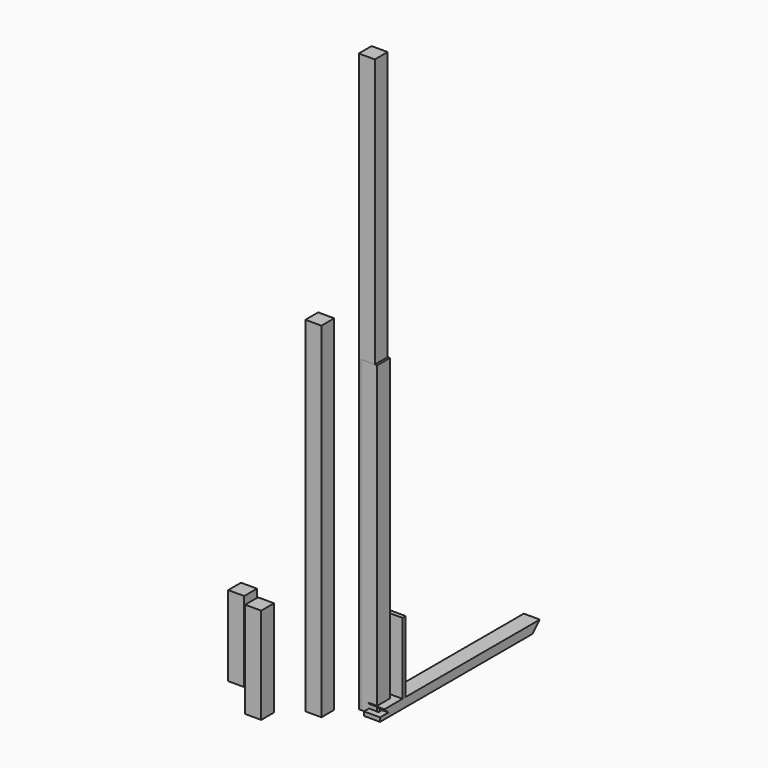
from build123d import *

# Parameters (mm, degrees)
F0_W      = 25.4
F0_H      = 25.4
F1_DEPTH  = 457.2
F2_W      = 25.4
F2_H      = 25.4
F3_DEPTH  = 546.1
F5_DEPTH  = 25.4
F6_W      = 25.4
F6_H      = 25.4
F7_DEPTH  = 127
F8_W      = 25.4
F8_H      = 25.4
F9_DEPTH  = 152.4
F11_DEPTH = 25.4
F12_W     = 25.4
F12_H     = 25.4
F13_DEPTH = 914.4
F14_W     = 25.4
F14_H     = 25.4
F15_DEPTH = 488.95
F17_D     = 6.35
F17_DEPTH = 25.4
F17_TIP   = 1.9077324654


with BuildPart() as f1:
    # F0 (on Top) → F1 (new body)
    with BuildSketch(Plane.XY):
        Rectangle(F0_W, F0_H)
    extrude(amount=F1_DEPTH)


with BuildPart() as f3:
    # F2 (on Top) → F3 (new body)
    with BuildSketch(Plane.XY):
        with Locations((-51.6366362572, -45.7707265022)):
            Rectangle(F2_W, F2_H)
    extrude(amount=F3_DEPTH)


with BuildPart() as f5:
    # F4 (on Right) → F5 (new body)
    with BuildSketch(Plane.YZ):
        Polygon((-22.777274251, 0), (28.022725749, 0), (28.022725749, 127), (21.672725749, 127), (21.672725749, 6.35), (-22.777274251, 6.35), align=None)
    extrude(amount=F5_DEPTH)

    # F17
    with Locations(Plane.XY.offset(6.35)):
        with Locations((12.7, -10.077274251)):
            Hole(F17_D / 2, depth=F17_DEPTH)
            with Locations((0, 0, -(F17_DEPTH + F17_TIP / 2))):  # 118° drill point
                Cone(0, F17_D / 2, F17_TIP, mode=Mode.SUBTRACT)


with BuildPart() as f7:
    # F6 (on Top) → F7 (new body)
    with BuildSketch(Plane.XY):
        with Locations((-176.7839704037, -42.2121815711)):
            Rectangle(F6_W, F6_H)
    extrude(amount=F7_DEPTH)


with BuildPart() as f9:
    # F8 (on Top) → F9 (new body)
    with BuildSketch(Plane.XY):
        with Locations((-105.4023589611, -97.7482430965)):
            Rectangle(F8_W, F8_H)
    extrude(amount=F9_DEPTH)


with BuildPart() as f11:
    # F10 (on Right) → F11 (new body)
    with BuildSketch(Plane.YZ):
        Polygon((-14.1594959423, 14.1594959423), (0, 0), (279.4, 0), (293.5594959423, 14.1594959423), align=None)
    extrude(amount=F11_DEPTH)


with BuildPart() as f13:
    # F12 (on Top) → F13 (new body)
    with BuildSketch(Plane.XY):
        with Locations((-3.6760638468, 0)):
            Rectangle(F12_W, F12_H)
    extrude(amount=F13_DEPTH)


with BuildPart() as f15:
    # F14 (on Top) → F15 (new body)
    with BuildSketch(Plane.XY):
        Rectangle(F14_W, F14_H)
    extrude(amount=F15_DEPTH)


solid = Compound([f1.part, f3.part, f5.part, f7.part, f9.part, f11.part, f13.part, f15.part])
